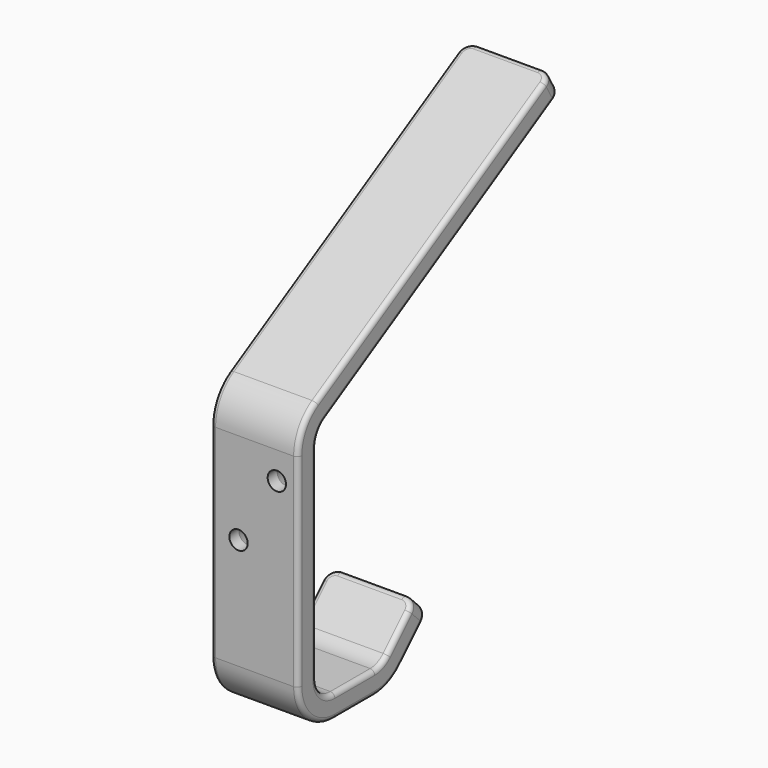
from build123d import *

# Parameters (mm, degrees)
F1_DEPTH        = 19
F2_R            = 10
F3_R            = 10
F4_R            = 5
F5_R            = 5
F6_R            = 10
F7_R            = 5
F8_R            = 2.5
F9_R            = 1
F11_D           = 4
F11_CSINK_D     = 6
F11_CSINK_ANGLE = 45
F12_D           = 4
F12_CSINK_D     = 6
F12_CSINK_ANGLE = 45


with BuildPart() as f1:
    # F0 (on Right) → F1 (new body)
    with BuildSketch(Plane.YZ):
        Polygon((0, 60), (0, 0), (25, 0), (35.606602, 10.606602), (32.071068, 14.142136), (22.928932, 5), (5, 5), (5, 57.113249), (71.782032, 95.669873), (69.282032, 100), align=None)
    extrude(amount=F1_DEPTH)

    # F2
    f2_edges = [f1.edges().sort_by_distance(p)[0] for p in [
        (9.5, 0, 60),
    ]]
    fillet(f2_edges, radius=F2_R)

    # F3
    f3_edges = [f1.edges().sort_by_distance(p)[0] for p in [
        (9.5, 0, 0),
    ]]
    fillet(f3_edges, radius=F3_R)

    # F4
    f4_edges = [f1.edges().sort_by_distance(p)[0] for p in [
        (9.5, 5, 5),
    ]]
    fillet(f4_edges, radius=F4_R)

    # F5
    f5_edges = [f1.edges().sort_by_distance(p)[0] for p in [
        (9.5, 5, 57.113249),
    ]]
    fillet(f5_edges, radius=F5_R)

    # F6
    f6_edges = [f1.edges().sort_by_distance(p)[0] for p in [
        (9.5, 25, 0),
    ]]
    fillet(f6_edges, radius=F6_R)

    # F7
    f7_edges = [f1.edges().sort_by_distance(p)[0] for p in [
        (9.5, 22.928932, 5),
    ]]
    fillet(f7_edges, radius=F7_R)

    # F8
    f8_edges = [f1.edges().sort_by_distance(p)[0] for p in [
        (19, 33.838835, 12.374369),
        (0, 33.838835, 12.374369),
        (0, 70.532032, 97.834936),
        (19, 70.532032, 97.834936),
    ]]
    fillet(f8_edges, radius=F8_R)

    # F9
    f9_edges = [f1.edges().sort_by_distance(p)[0] for p in [
        (9.5, 35.606602, 10.606602),
        (9.5, 32.071068, 14.142136),
    ]]
    fillet(f9_edges, radius=F9_R)

    # F11 (through all)
    with Locations(Plane(origin=(0, 5, 0), x_dir=(-1, 0, 0), z_dir=(0, 1, 0))):
        with Locations((-14.348798, 48.270144)):
            CounterSinkHole(F11_D / 2, F11_CSINK_D / 2, counter_sink_angle=F11_CSINK_ANGLE)

    # F12 (through all)
    with Locations(Plane(origin=(0, 5, 0), x_dir=(-1, 0, 0), z_dir=(0, 1, 0))):
        with Locations((-6, 34.226497)):
            CounterSinkHole(F12_D / 2, F12_CSINK_D / 2, counter_sink_angle=F12_CSINK_ANGLE)


solid = f1.part
